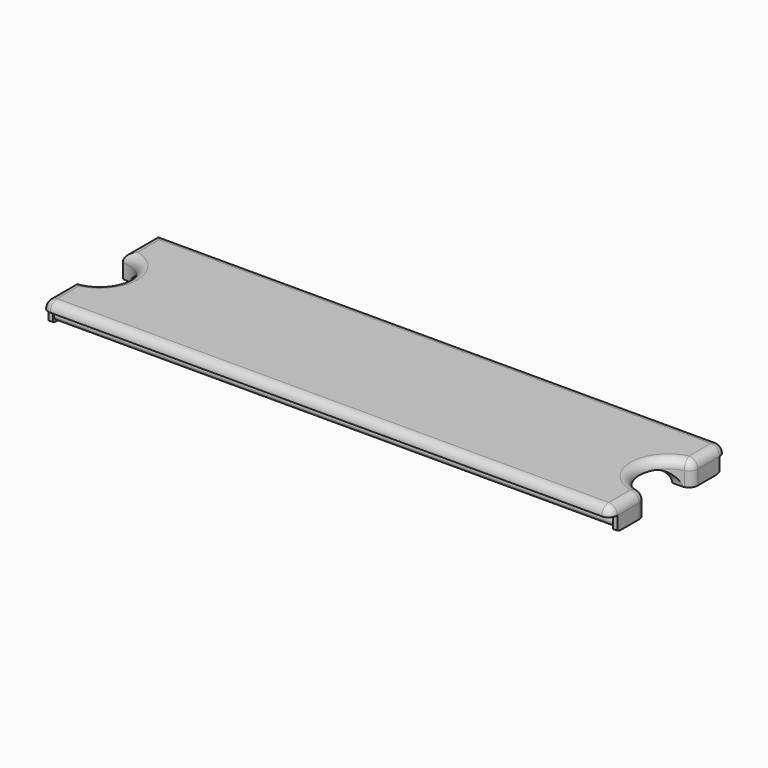
from build123d import *

# Parameters (mm, degrees)
F1_DEPTH  = 8
F3_T      = -1.5
F2_R      = 1.5
F4_DEPTH  = 196
F6_DEPTH  = 196.001
F7_R      = 3
F9_DEPTH  = 196.001
F11_DEPTH = 196.001


with BuildPart() as f1:
    # F0 (on Top) → F1 (new body)
    with BuildSketch(Plane.XY):
        with BuildLine():
            Line((145.992111, 12.24232), (-50.007889, 12.24232))
            Line((-50.007889, 12.24232), (-50.007889, -2.75768))
            ThreePointArc((-50.007889, -2.75768), (-40.007889, -12.75768), (-50.007889, -22.75768))
            Line((-50.007889, -22.75768), (-50.007889, -37.75768))
            Line((-50.007889, -37.75768), (145.992111, -37.75768))
            Line((145.992111, -37.75768), (145.992111, -22.75768))
            ThreePointArc((145.992111, -22.75768), (135.992111, -12.75768), (145.992111, -2.75768))
            Line((145.992111, -2.75768), (145.992111, 12.24232))
        make_face()
    extrude(amount=F1_DEPTH)

    # F3
    f3_openings = [f1.faces().sort_by_distance(p)[0] for p in [
        (47.992111, -12.75768, 0),
    ]]
    offset(amount=F3_T, openings=f3_openings)

    # F2 (on face) → F4 (join, through all)
    with BuildSketch(Plane.YZ.offset(145.992111)):
        with Locations((7.24232, 2)):
            Circle(F2_R)
        with Locations((-32.75768, 2)):
            Circle(F2_R)
    extrude(amount=-F4_DEPTH)

    # F5 (on face) → F6 (cut, through all)
    with BuildSketch(Plane(origin=(-50.007889, 0, 0), x_dir=(0, -1, 0), z_dir=(-1, 0, 0))):
        with BuildLine():
            ThreePointArc((-15.24232, 1.255437), (-17.447156, 3.75963), (-18.24232, 7))
            Line((-18.24232, 7), (-18.24232, 0.071797))
            ThreePointArc((-18.24232, 0.071797), (-16.673224, 0.488491), (-15.24232, 1.255437))
        make_face()
        with BuildLine():
            ThreePointArc((-12.24232, 7), (-13.037483, 3.75963), (-15.24232, 1.255437))
            ThreePointArc((-15.24232, 1.255437), (-13.811415, 0.488491), (-12.24232, 0.071797))
            Line((-12.24232, 0.071797), (-12.24232, 7))
        make_face()
        with BuildLine():
            ThreePointArc((-12.24232, 0.071797), (-13.811415, 0.488491), (-15.24232, 1.255437))
            ThreePointArc((-15.24232, 1.255437), (-16.673224, 0.488491), (-18.24232, 0.071797))
            Line((-18.24232, 0.071797), (-18.24232, 0))
            Line((-18.24232, 0), (-12.24232, 0))
            Line((-12.24232, 0), (-12.24232, 0.071797))
        make_face()
        with BuildLine():
            Line((-18.24232, 0), (-18.24232, 0.071797))
            ThreePointArc((-18.24232, 0.071797), (-18.741033, 0.017972), (-19.24232, 0))
            Line((-19.24232, 0), (-18.24232, 0))
        make_face()
        with BuildLine():
            ThreePointArc((-11.24232, 0), (-11.743607, 0.017972), (-12.24232, 0.071797))
            Line((-12.24232, 0.071797), (-12.24232, 0))
            Line((-12.24232, 0), (-11.24232, 0))
        make_face()
    extrude(amount=-F6_DEPTH, mode=Mode.SUBTRACT)

    # F7
    f7_edges = [f1.edges().sort_by_distance(p)[0] for p in [
        (47.992111, -37.75768, 8),
        (47.992111, 12.24232, 8),
        (145.992111, 4.74232, 8),
        (145.992111, -30.25768, 8),
        (135.992111, -12.75768, 8),
        (-50.007889, 4.74232, 8),
        (-40.007889, -12.75768, 8),
        (-50.007889, -30.25768, 8),
        (145.992111, -37.75768, 4),
        (145.992111, 12.24232, 4.035898),
        (-50.007889, -37.75768, 4),
        (145.992111, -2.75768, 4),
        (145.992111, -22.75768, 4),
    ]]
    fillet(f7_edges, radius=F7_R)

    # F8 (on face) → F9 (cut, through all)
    with BuildSketch(Plane.YZ.offset(145.992111)):
        with BuildLine():
            ThreePointArc((-17.512412, 5), (-21.047946, 3.535534), (-22.512412, 0))
            Line((-22.512412, 0), (-3.16584, 0))
            ThreePointArc((-3.16584, 0), (-4.630306, 3.535534), (-8.16584, 5))
            Line((-8.16584, 5), (-17.512412, 5))
        make_face()
    extrude(amount=-F9_DEPTH, mode=Mode.SUBTRACT)

    # F10 (on face) → F11 (cut, through all)
    with BuildSketch(Plane.YZ.offset(145.992111)):
        with BuildLine():
            ThreePointArc((-32.75768, 0), (-33.779229, 0.105468), (-34.75768, 0.417424))
            Line((-34.75768, 0.417424), (-34.75768, 5))
            Line((-34.75768, 5), (-37.75768, 5))
            Line((-37.75768, 5), (-37.75768, 0))
            Line((-37.75768, 0), (-32.75768, 0))
        make_face()
        with BuildLine():
            Line((7.24232, 0), (7.751559, 0))
            Line((7.751559, 0), (12.24232, 0))
            Line((12.24232, 0), (12.24232, 5))
            Line((12.24232, 5), (9.238324, 5))
            Line((9.238324, 5), (9.238324, 0.415683))
            ThreePointArc((9.238324, 0.415683), (8.261734, 0.105024), (7.24232, 0))
        make_face()
    extrude(amount=-F11_DEPTH, mode=Mode.SUBTRACT)


solid = f1.part
